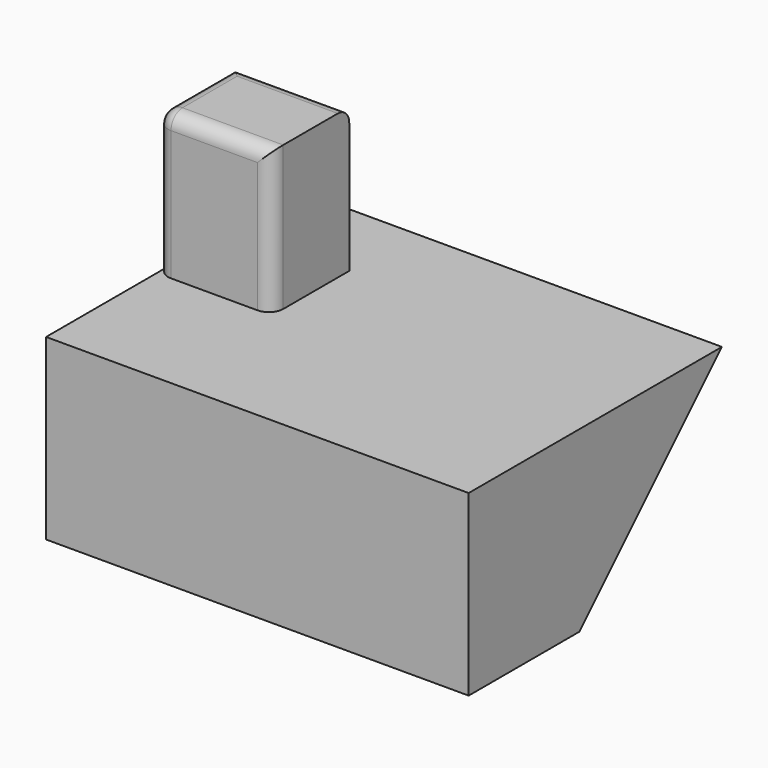
from build123d import *

# Parameters (mm, degrees)
F0_W     = 40.850177
F0_H     = 34.370493
F1_DEPTH = 114.554
F2_R     = 5.08
F4_DEPTH = 150


with BuildPart() as f1:
    # F0 (on Top) → F1 (new body)
    with BuildSketch(Plane.XY):
        with Locations((20.425088, 17.185246)):
            Rectangle(F0_W, F0_H)
    extrude(amount=F1_DEPTH)

    # F2
    f2_edges = [f1.edges().sort_by_distance(p)[0] for p in [
        (20.425089, 0, 114.554),
        (20.425089, 34.370493, 114.554),
        (0, 0, 57.277),
        (0, 17.185247, 114.554),
        (40.850177, 0, 57.277),
        (20.425089, 0, 0),
    ]]
    fillet(f2_edges, radius=F2_R)

    # F3 (on Right) → F4 (join)
    with BuildSketch(Plane.YZ):
        Polygon((-49.08682, 0), (0, 0), (63.275978, 63.303202), (-49.08682, 63.303202), align=None)
    extrude(amount=F4_DEPTH)


solid = f1.part
